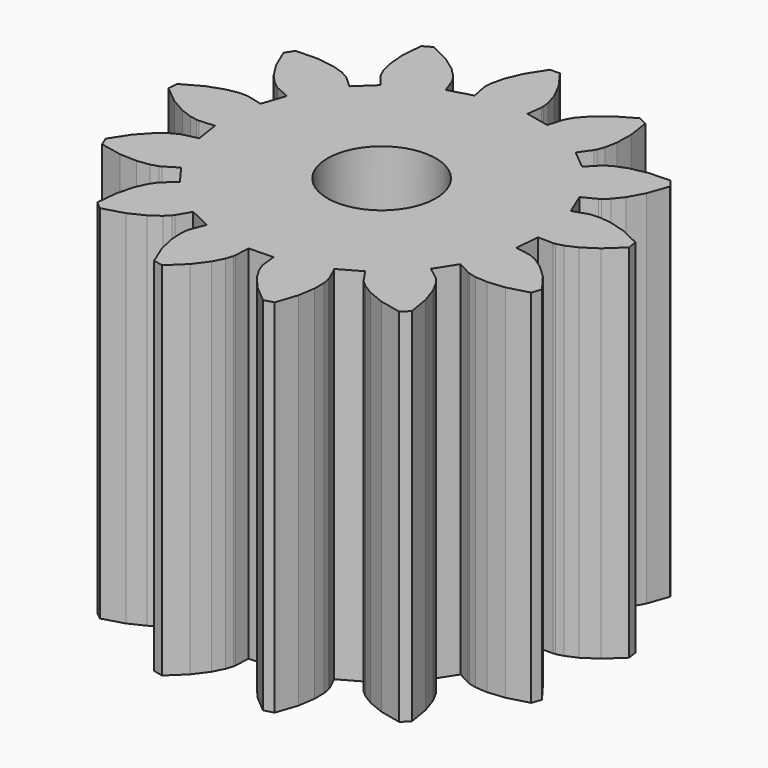
from build123d import *

# Parameters (mm, degrees)
CYLINDER007_R                 = 1.5
CYLINDER007_DEPTH             = 12
LINEAREXTRUDE005_DEPTH        = 10
DIFFERENCE006_PLACEMENT_ANGLE = 258


with BuildPart() as cylinder007:
    # cylinder007 → cylinder007 (new body)
    with BuildSketch(Plane.XY.offset(-1)):
        Circle(CYLINDER007_R)
    extrude(amount=CYLINDER007_DEPTH)


with BuildPart() as difference006:
    # union007 → LinearExtrude005 (new body)
    with BuildSketch(Plane(origin=(0, 0, 0), x_dir=(0, 1, 0), z_dir=(0, 0, 1))):
        Polygon((0.711931, -4.306123), (1.370771, -4.143733), (1.502069, -4.540636), (1.530367, -4.602072), (1.641751, -4.771632), (1.871155, -5.020002), (2.245545, -5.309618), (2.782207, -5.596589), (3.025427, -5.468937), (3.094113, -4.864255), (3.068442, -4.391617), (2.994354, -4.061731), (2.918082, -3.873743), (2.883597, -3.815555), (2.631538, -3.482032), (3.139447, -3.032064), (3.440155, -3.322487), (3.493763, -3.363735), (3.671187, -3.46211), (3.989737, -3.575421), (4.455834, -3.657875), (5.064387, -3.662577), (5.220426, -3.436516), (5.000234, -2.869177), (4.757857, -2.462607), (4.53895, -2.204938), (4.384052, -2.073928), (4.326475, -2.038431), (3.948292, -1.860249), (4.188912, -1.225786), (4.590143, -1.343197), (4.656779, -1.354807), (4.859597, -1.359461), (5.194318, -1.311756), (5.645345, -1.168159), (6.186377, -0.889514), (6.219486, -0.616832), (5.76086, -0.216806), (5.357304, 0.030555), (5.043726, 0.156979), (4.845688, 0.200998), (4.77821, 0.205671), (4.36054, 0.187693), (4.278749, 0.861305), (4.688584, 0.943805), (4.752983, 0.964491), (4.934732, 1.054624), (5.208943, 1.252418), (5.541575, 1.58917), (5.891142, 2.087328), (5.793738, 2.344162), (5.201743, 2.485233), (4.729457, 2.516719), (4.393046, 2.482935), (4.197235, 2.429879), (4.135314, 2.402658), (3.773841, 2.192639), (3.388376, 2.751081), (3.712928, 3.01459), (3.760337, 3.062835), (3.879381, 3.227107), (4.030263, 3.529677), (4.168298, 3.982437), (4.246318, 4.585986), (4.040715, 4.768136), (3.45097, 4.617935), (3.018149, 4.426332), (2.735972, 4.240079), (2.587247, 4.102103), (2.545069, 4.049224), (2.322601, 3.695276), (1.721767, 4.010618), (1.886685, 4.394771), (1.906243, 4.459522), (1.93531, 4.6603), (1.928298, 4.99833), (1.840114, 5.463378), (1.628715, 6.034052), (1.362012, 6.099788), (0.909622, 5.692724), (0.61542, 5.321926), (0.452121, 5.025874), (0.384552, 4.834585), (0.371779, 4.768162), (0.339281, 4.351371), (-0.339281, 4.351371), (-0.371779, 4.768162), (-0.384552, 4.834585), (-0.452121, 5.025874), (-0.61542, 5.321926), (-0.909622, 5.692724), (-1.362012, 6.099788), (-1.628715, 6.034052), (-1.840114, 5.463378), (-1.928298, 4.99833), (-1.93531, 4.6603), (-1.906243, 4.459522), (-1.886685, 4.394771), (-1.721767, 4.010618), (-2.322601, 3.695276), (-2.545069, 4.049224), (-2.587247, 4.102103), (-2.735972, 4.240079), (-3.018149, 4.426332), (-3.45097, 4.617935), (-4.040715, 4.768136), (-4.246318, 4.585986), (-4.168298, 3.982437), (-4.030263, 3.529677), (-3.879381, 3.227107), (-3.760337, 3.062835), (-3.712928, 3.01459), (-3.388376, 2.751081), (-3.773841, 2.192638), (-4.135314, 2.402658), (-4.197235, 2.429879), (-4.393046, 2.482935), (-4.729457, 2.516719), (-5.201743, 2.485233), (-5.793738, 2.344162), (-5.891142, 2.087328), (-5.541575, 1.58917), (-5.208943, 1.252418), (-4.934732, 1.054624), (-4.752983, 0.964491), (-4.688584, 0.943805), (-4.278749, 0.861305), (-4.36054, 0.187693), (-4.77821, 0.205671), (-4.845688, 0.200998), (-5.043726, 0.156979), (-5.357304, 0.030555), (-5.76086, -0.216806), (-6.219486, -0.616832), (-6.186377, -0.889514), (-5.645345, -1.168159), (-5.194318, -1.311756), (-4.859597, -1.359461), (-4.656779, -1.354807), (-4.590143, -1.343197), (-4.188912, -1.225786), (-3.948292, -1.860249), (-4.326475, -2.038431), (-4.384052, -2.073928), (-4.53895, -2.204938), (-4.757857, -2.462607), (-5.000234, -2.869177), (-5.220426, -3.436516), (-5.064387, -3.662577), (-4.455834, -3.657875), (-3.989737, -3.575421), (-3.671187, -3.46211), (-3.493763, -3.363735), (-3.440155, -3.322487), (-3.139447, -3.032064), (-2.631537, -3.482032), (-2.883597, -3.815555), (-2.918082, -3.873743), (-2.994354, -4.061731), (-3.068442, -4.391617), (-3.094113, -4.864255), (-3.025427, -5.468937), (-2.782207, -5.596589), (-2.245545, -5.309618), (-1.871155, -5.020002), (-1.641751, -4.771632), (-1.530367, -4.602072), (-1.502069, -4.540636), (-1.370771, -4.143733), (-0.71193, -4.306122), (-0.780122, -4.71858), (-0.783616, -4.78613), (-0.763789, -4.98803), (-0.676085, -5.31456), (-0.47917, -5.74499), (-0.137342, -6.24849), (0.137342, -6.24849), (0.47917, -5.74499), (0.676085, -5.31456), (0.763789, -4.98803), (0.783616, -4.78613), (0.780122, -4.71858), align=None)
    extrude(amount=LINEAREXTRUDE005_DEPTH)

    # difference006: cut cylinder007
    add(cylinder007.part, mode=Mode.SUBTRACT)


with BuildPart() as difference006_1:
    # difference006 placement: moved
    add(difference006.part.moved(Location((-5.491879, -9.524993, 0))).rotate(Axis((-5.491879, -9.524993, 0), (0, 0, 1)), DIFFERENCE006_PLACEMENT_ANGLE))


solid = difference006_1.part
